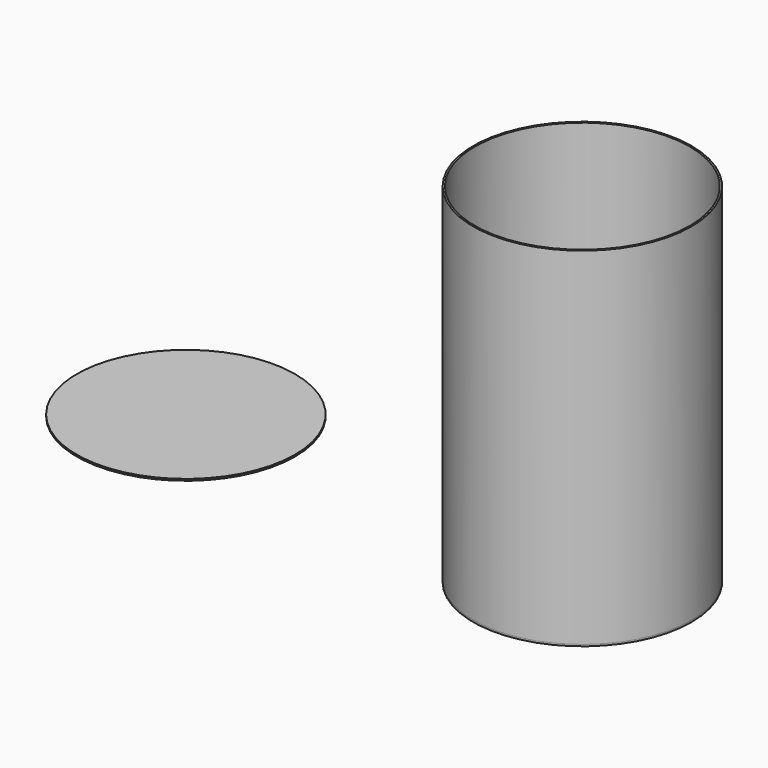
from build123d import *

# Parameters (mm, degrees)
F0_R     = 200.025
F1_DEPTH = 3.175
F2_R     = 200.025
F2_R_2   = 196.85
F3_DEPTH = 635
F4_R     = 200.025
F5_DEPTH = 3.175


with BuildPart() as f1:
    # F0 (on Top) → F1 (new body)
    with BuildSketch(Plane.XY):
        Circle(F0_R)
    extrude(amount=-F1_DEPTH)

    # F2 (on face) → F3 (join)
    with BuildSketch(Plane.XY):
        Circle(F2_R)
        Circle(F2_R_2, mode=Mode.SUBTRACT)
    extrude(amount=F3_DEPTH)


with BuildPart() as f5:
    # F4 (on Top) → F5 (new body)
    with BuildSketch(Plane.XY):
        with Locations((-759.536684, 41.279506)):
            Circle(F4_R)
    extrude(amount=F5_DEPTH)


solid = Compound([f1.part, f5.part])
